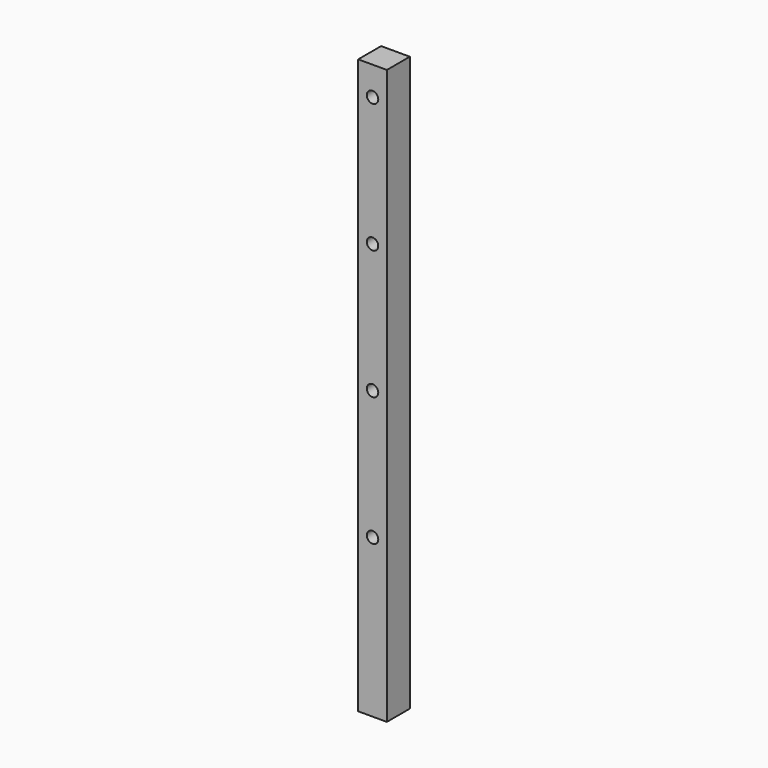
from build123d import *

# Parameters (mm, degrees)
F0_W     = 10
F0_H     = 200
F1_DEPTH = 10
F2_R     = 2
F3_DEPTH = 10.001


with BuildPart() as f1:
    # F0 (on Front) → F1 (new body)
    with BuildSketch(Plane.XZ):
        with Locations((5, 100)):
            Rectangle(F0_W, F0_H)
    extrude(amount=F1_DEPTH)

    # F2 (on face) → F3 (cut, through all)
    with BuildSketch(Plane.XZ.offset(10)):
        with Locations((5, 190)):
            Circle(F2_R)
        with Locations((5, 145)):
            Circle(F2_R)
        with Locations((5, 100)):
            Circle(F2_R)
        with Locations((5, 55)):
            Circle(F2_R)
    extrude(amount=-F3_DEPTH, mode=Mode.SUBTRACT)


solid = f1.part
